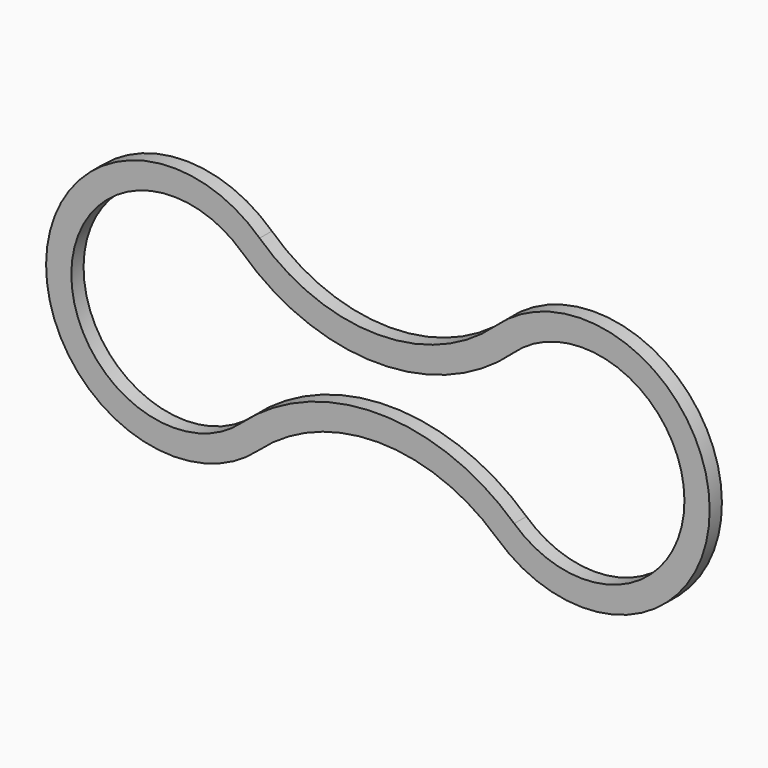
from build123d import *

# Parameters (mm, degrees)
F1_DEPTH = 2


with BuildPart() as f1:
    # F0 (on Front) → F1 (new body)
    with BuildSketch(Plane.XZ):
        with BuildLine():
            ThreePointArc((-11.309135, 25.024768), (-26.770832, 18.949327), (-42.232529, 25.024768))
            ThreePointArc((-42.232529, 25.024768), (-70.15385, 12.953573), (-42.376179, 0.555392))
            ThreePointArc((-42.376179, 0.555392), (-26.770832, 6.581763), (-11.165485, 0.555392))
            ThreePointArc((-11.165485, 0.555392), (16.612186, 12.953573), (-11.309135, 25.024768))
        make_face()
        with BuildLine():
            ThreePointArc((-44.595501, 3.000348), (-66.851907, 12.934189), (-44.480404, 22.606037))
            ThreePointArc((-44.480404, 22.606037), (-26.770832, 15.647328), (-9.06126, 22.606037))
            ThreePointArc((-9.06126, 22.606037), (13.310243, 12.934189), (-8.946163, 3.000348))
            ThreePointArc((-8.946163, 3.000348), (-26.770832, 9.883763), (-44.595501, 3.000348))
        make_face(mode=Mode.SUBTRACT)
    extrude(amount=F1_DEPTH)


solid = f1.part
